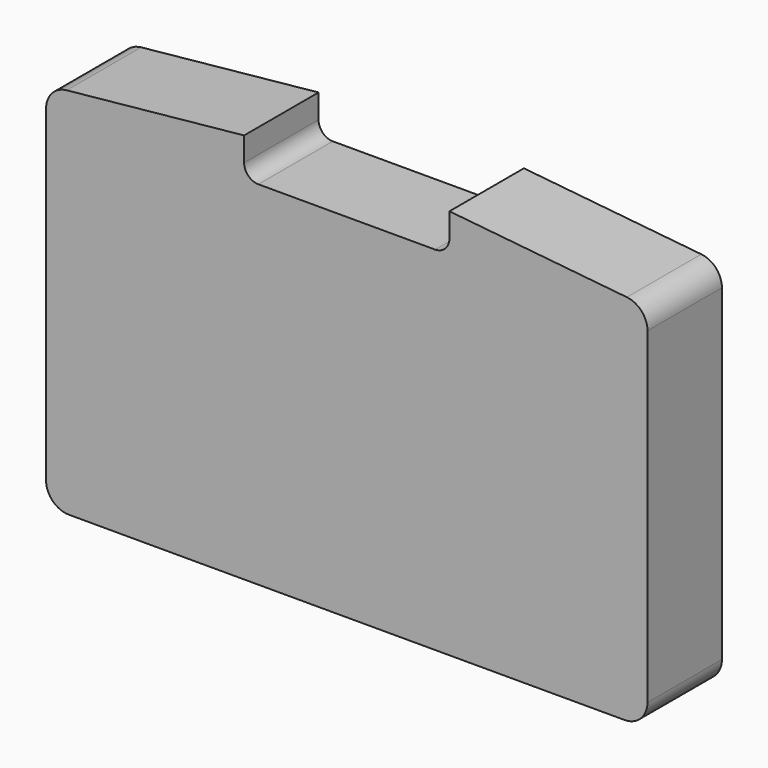
from build123d import *

# Parameters (mm, degrees)
F1_DEPTH = 65


with BuildPart() as f1:
    # F0 (on Front) → F1 (new body)
    with BuildSketch(Plane.XZ):
        with BuildLine():
            Line((-194, -129.5), (0, -129.5))
            Line((0, -129.5), (194, -129.5))
            ThreePointArc((194, -129.5), (205.313708, -124.813708), (210, -113.5))
            Line((210, -113.5), (210, 115.037898))
            ThreePointArc((210, 115.037898), (205.869771, 125.766763), (195.611432, 130.956543))
            Line((195.611432, 130.956543), (71.7, 143.5))
            Line((71.7, 143.5), (71.7, 126.7))
            ThreePointArc((71.7, 126.7), (68.771068, 119.628932), (61.7, 116.7))
            Line((61.7, 116.7), (0, 116.7))
            Line((0, 116.7), (-61.7, 116.7))
            ThreePointArc((-61.7, 116.7), (-68.771068, 119.628932), (-71.7, 126.7))
            Line((-71.7, 126.7), (-71.7, 143.5))
            Line((-71.7, 143.5), (-195.611432, 130.956543))
            ThreePointArc((-195.611432, 130.956543), (-205.869771, 125.766763), (-210, 115.037898))
            Line((-210, 115.037898), (-210, -113.5))
            ThreePointArc((-210, -113.5), (-205.313708, -124.813708), (-194, -129.5))
        make_face()
    extrude(amount=F1_DEPTH)


solid = f1.part
